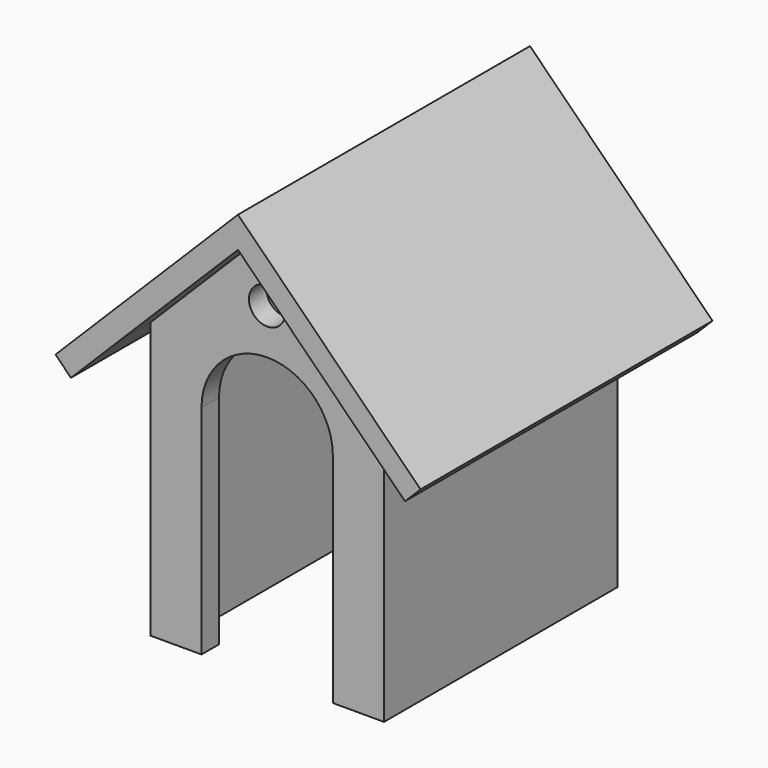
from build123d import *

# Parameters (mm, degrees)
F0_R          = 2.5
F1_DEPTH      = 3
F2_DEPTH      = 5
F2_DEPTH_BACK = 45
F3_DEPTH      = 40
F4_START      = -37
F4_DEPTH      = 3


with BuildPart() as f1:
    # F0 (on Front) → F1 (new body)
    with BuildSketch(Plane.XZ):
        Polygon((-13, 42.7573593129), (-16, 39.7573593129), (-16, 2), (-13, 2), align=None)
        with BuildLine():
            Line((13, 2), (13, 42.7573593129))
            Line((13, 42.7573593129), (0, 55.7573593129))
            Line((0, 55.7573593129), (-13, 42.7573593129))
            Line((-13, 42.7573593129), (-13, 2))
            Line((-13, 2), (-9, 2))
            Line((-9, 2), (-9, 31.7573593129))
            ThreePointArc((-9, 31.7573593129), (0, 40.7573593129), (9, 31.7573593129))
            Line((9, 31.7573593129), (9, 2))
            Line((9, 2), (13, 2))
        make_face()
        with Locations((0, 46.9705627485)):
            Circle(F0_R, mode=Mode.SUBTRACT)
        Polygon((16, 2), (16, 39.7573593129), (13, 42.7573593129), (13, 2), align=None)
    extrude(amount=-F1_DEPTH)

    # F0 (on Front) → F2 (join, two sides)
    with BuildSketch(Plane.XZ) as f2_sk:
        Polygon((25, 35), (0, 60), (-25, 35), (-22.8786796564, 32.8786796564), (-16, 39.7573593129), (-13, 42.7573593129), (0, 55.7573593129), (13, 42.7573593129), (16, 39.7573593129), (22.8786796564, 32.8786796564), align=None)
    extrude(amount=F2_DEPTH)
    extrude(f2_sk.sketch, amount=-F2_DEPTH_BACK)

    # F0 (on Front) → F3 (join)
    with BuildSketch(Plane.XZ):
        Polygon((-13, 42.7573593129), (-16, 39.7573593129), (-16, 2), (-13, 2), align=None)
        Polygon((16, 2), (16, 39.7573593129), (13, 42.7573593129), (13, 2), align=None)
    extrude(amount=-F3_DEPTH)

    # F0 (on Front) → F4 (join)
    with BuildSketch(Plane.XZ.offset(F4_START)):
        with BuildLine():
            Line((13, 2), (13, 42.7573593129))
            Line((13, 42.7573593129), (0, 55.7573593129))
            Line((0, 55.7573593129), (-13, 42.7573593129))
            Line((-13, 42.7573593129), (-13, 2))
            Line((-13, 2), (-9, 2))
            Line((-9, 2), (-9, 31.7573593129))
            ThreePointArc((-9, 31.7573593129), (0, 40.7573593129), (9, 31.7573593129))
            Line((9, 31.7573593129), (9, 2))
            Line((9, 2), (13, 2))
        make_face()
        with Locations((0, 46.9705627485)):
            Circle(F0_R, mode=Mode.SUBTRACT)
        with BuildLine():
            Line((-9, 2), (9, 2))
            Line((9, 2), (9, 31.7573593129))
            ThreePointArc((9, 31.7573593129), (0, 40.7573593129), (-9, 31.7573593129))
            Line((-9, 31.7573593129), (-9, 2))
        make_face()
    extrude(amount=-F4_DEPTH)


solid = f1.part
